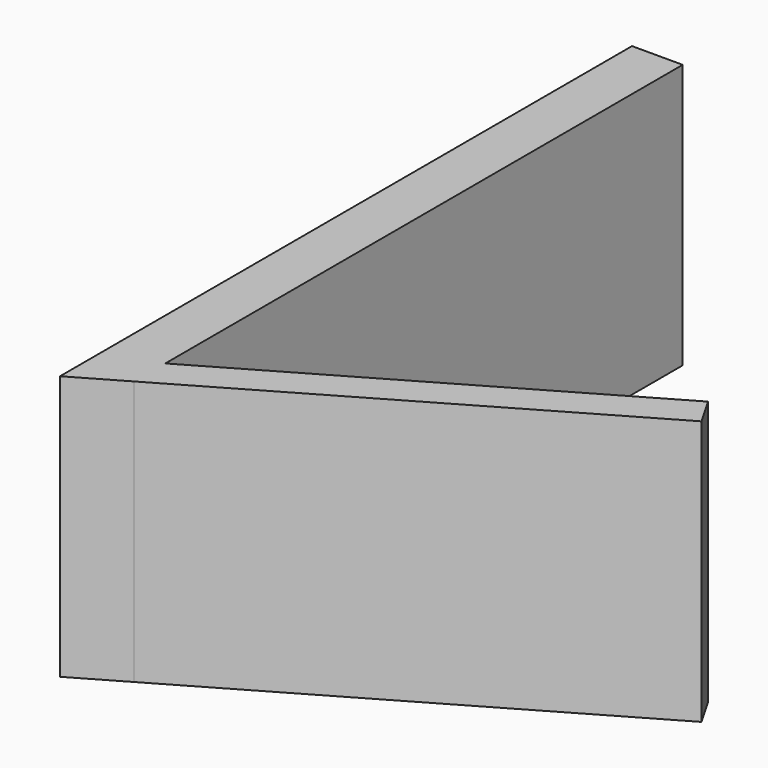
from build123d import *

# Parameters (mm, degrees)
F1_DEPTH = 47


with BuildPart() as f1:
    # F0 (on Top) → F1 (new body)
    with BuildSketch(Plane.XY):
        Polygon((0, 127), (0, 0), (9, 5.196152), (9, 12.124356), (9, 127), align=None)
        Polygon((9, 12.124356), (9, 5.196152), (77.942286, 45), (74.942286, 50.196152), align=None)
    extrude(amount=F1_DEPTH)


solid = f1.part
